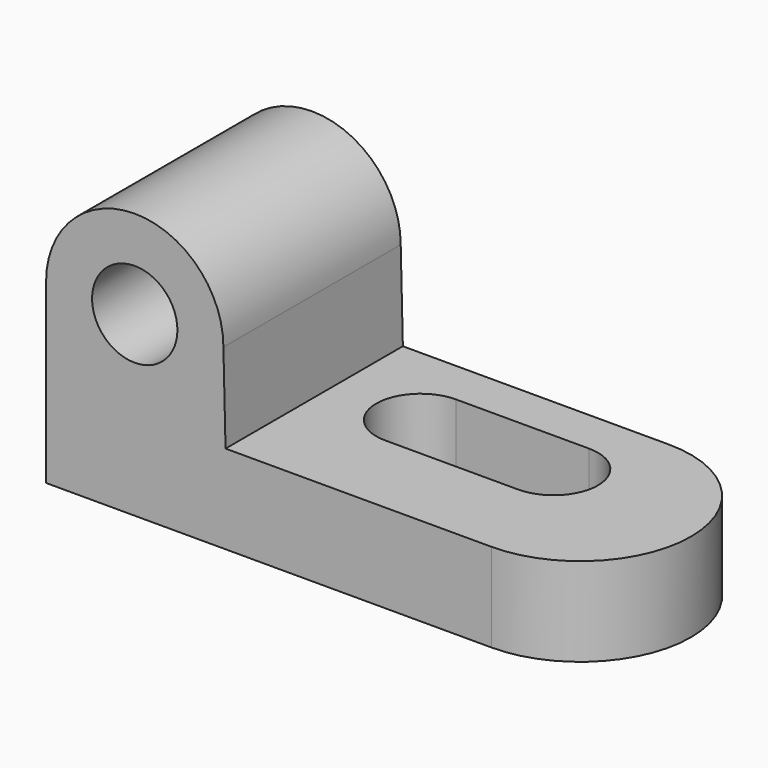
from build123d import *

# Parameters (mm, degrees)
F1_DEPTH = 31.75
F3_DEPTH = 31.75
F4_R     = 6.111063
F5_DEPTH = 31.75
F7_DEPTH = 12.7
F9_DEPTH = 25.4


with BuildPart() as f1:
    # F0 (on Front) → F1 (new body)
    with BuildSketch(Plane.XZ):
        Polygon((-42.020088, 46.490617), (-67.420088, 46.490617), (-67.420088, 21.090617), (-3.613756, 21.090617), (-3.613756, 33.790617), (-41.713756, 33.790617), align=None)
    extrude(amount=F1_DEPTH)

    # F2 (on face) → F3 (join)
    with BuildSketch(Plane.XZ.offset(31.75)):
        with BuildLine():
            Line((-67.420088, 46.490617), (-42.020088, 46.490617))
            ThreePointArc((-42.020088, 46.490617), (-54.720088, 59.190617), (-67.420088, 46.490617))
        make_face()
    extrude(amount=-F3_DEPTH)

    # F4 (on face) → F5 (cut)
    with BuildSketch(Plane.XZ.offset(31.75)):
        with Locations((-54.720088, 46.490617)):
            Circle(F4_R)
    extrude(amount=-F5_DEPTH, mode=Mode.SUBTRACT)

    # F6 (on face) → F7 (join)
    with BuildSketch(Plane.XY.offset(33.790617)):
        with BuildLine():
            Line((-3.613756, 0), (-3.613756, -31.75))
            ThreePointArc((-3.613756, -31.75), (12.261244, -15.875), (-3.613756, 0))
        make_face()
    extrude(amount=-F7_DEPTH)

    # F8 (on face) → F9 (cut)
    with BuildSketch(Plane.XY.offset(33.790617)):
        with BuildLine():
            Line((-9.963756, -6.35), (-29.013756, -6.35))
            ThreePointArc((-29.013756, -6.35), (-35.363756, -12.7), (-29.013756, -19.05))
            Line((-29.013756, -19.05), (-9.963756, -19.05))
            ThreePointArc((-9.963756, -19.05), (-3.613756, -12.7), (-9.963756, -6.35))
        make_face()
    extrude(amount=-F9_DEPTH, mode=Mode.SUBTRACT)


solid = f1.part
